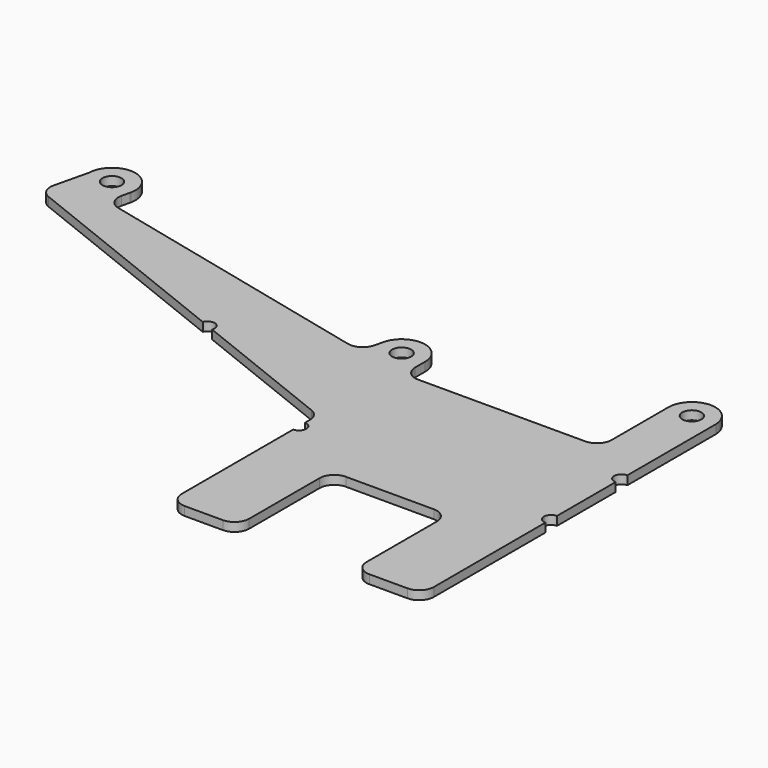
from build123d import *

# Parameters (mm, degrees)
F0_R     = 3.25
F1_DEPTH = 3


with BuildPart() as f1:
    # F0 (on Top) → F1 (new body)
    with BuildSketch(Plane.XY):
        with BuildLine():
            Line((140.522992, -30), (221.515708, -30))
            ThreePointArc((221.515708, -30), (222.247942, -28.232233), (224.015708, -27.5))
            Line((224.015708, -27.5), (224.015708, -2.5))
            ThreePointArc((224.015708, -2.5), (221.515708, 0), (224.015708, 2.5))
            Line((224.015708, 2.5), (224.015708, 39.658693))
            Line((224.015708, 39.658693), (224.015708, 40.341307))
            ThreePointArc((224.015708, 40.341307), (215.8523, 47.998179), (208.022992, 40))
            Line((208.022992, 40), (208.022992, 15.787397))
            ThreePointArc((208.022992, 15.787397), (206.558526, 12.251863), (203.022992, 10.787397))
            Line((203.022992, 10.787397), (146.022964, 10.787397))
            ThreePointArc((146.022964, 10.787397), (142.48743, 12.251863), (141.022964, 15.787397))
            Line((141.022964, 15.787397), (141.022964, 19.978657))
            ThreePointArc((141.022964, 19.978657), (134.272065, 27.901887), (125.406482, 22.447196))
            Line((125.406482, 22.447196), (125.120118, 21.242808))
            Line((125.120118, 21.242808), (124.569344, 18.926368))
            ThreePointArc((124.569344, 18.926368), (122.326762, 15.825483), (118.54836, 15.218571))
            Line((118.54836, 15.218571), (21.81836, 38.21781))
            ThreePointArc((21.81836, 38.21781), (18.717476, 40.460392), (18.110564, 44.238793))
            Line((18.110564, 44.238793), (18.749643, 46.926629))
            Line((18.749643, 46.926629), (18.855966, 47.3738))
            ThreePointArc((18.855966, 47.3738), (11.975902, 56.943045), (3.027641, 49.272689))
            Line((3.027641, 49.272689), (0.224039, 37.481321))
            ThreePointArc((0.224039, 37.481321), (0.651558, 34.019478), (3.238437, 31.679566))
            Line((3.238437, 31.679566), (80.460392, 0.924996))
            ThreePointArc((80.460392, 0.924996), (83.707969, 2.322581), (85.105555, -0.924996))
            Line((85.105555, -0.924996), (134.872984, -20.745471))
            ThreePointArc((134.872984, -20.745471), (137.161226, -22.584387), (138.022992, -25.390633))
            Line((138.022992, -25.390633), (138.022992, -27.5))
            ThreePointArc((138.022992, -27.5), (139.790759, -28.232233), (140.522992, -30))
        make_face()
        with Locations((11.022992, 49)):
            Circle(F0_R, mode=Mode.SUBTRACT)
        with Locations((133.022992, 20)):
            Circle(F0_R, mode=Mode.SUBTRACT)
        with Locations((216.022992, 40)):
            Circle(F0_R, mode=Mode.SUBTRACT)
        with BuildLine():
            Line((206.022992, -85), (219.015708, -85))
            ThreePointArc((219.015708, -85), (222.551242, -83.535534), (224.015708, -80))
            Line((224.015708, -80), (224.015708, -32.5))
            ThreePointArc((224.015708, -32.5), (222.247942, -31.767767), (221.515708, -30))
            Line((221.515708, -30), (140.522992, -30))
            ThreePointArc((140.522992, -30), (139.790759, -31.767767), (138.022992, -32.5))
            Line((138.022992, -32.5), (138.022992, -80))
            ThreePointArc((138.022992, -80), (139.487459, -83.535534), (143.022992, -85))
            Line((143.022992, -85), (156.022992, -85))
            ThreePointArc((156.022992, -85), (159.558526, -83.535534), (161.022992, -80))
            Line((161.022992, -80), (161.022992, -50))
            ThreePointArc((161.022992, -50), (162.487459, -46.464466), (166.022992, -45))
            Line((166.022992, -45), (196.022992, -45))
            ThreePointArc((196.022992, -45), (199.558526, -46.464466), (201.022992, -50))
            Line((201.022992, -50), (201.022992, -80))
            ThreePointArc((201.022992, -80), (202.487459, -83.535534), (206.022992, -85))
        make_face()
    extrude(amount=F1_DEPTH)


solid = f1.part
